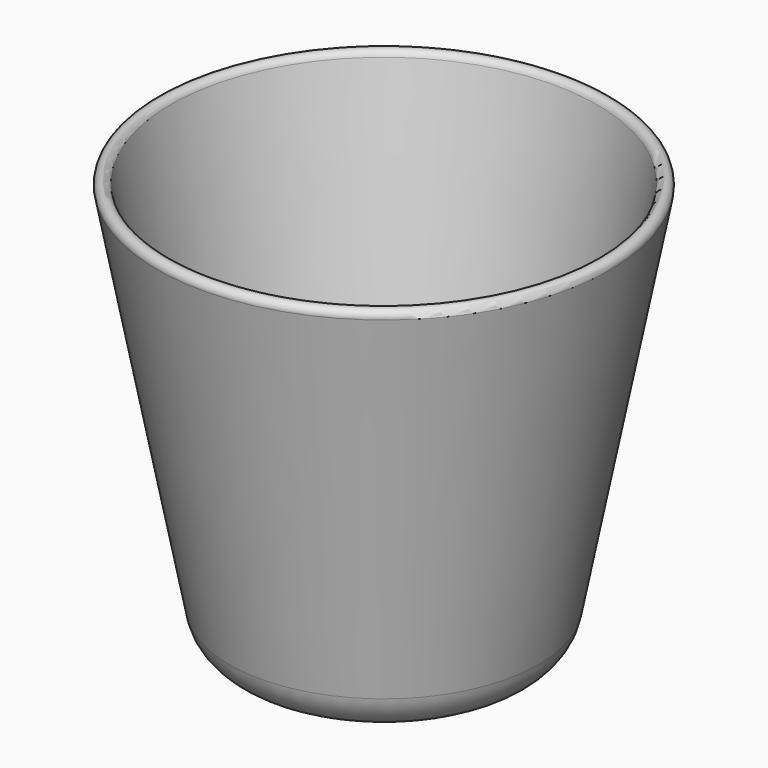
from build123d import *


with BuildPart() as f1:
    # F0 (on Front) → F1 (revolve)
    with BuildSketch(Plane.XZ):
        with BuildLine():
            Line((39.8063, 74.421447), (30.841358, 28.109491))
            ThreePointArc((30.841358, 28.109491), (23.186924, 15.226532), (9.084044, 10.16))
            Line((9.084044, 10.16), (0, 10.16))
            Line((0, 10.16), (0, -2.54))
            Line((0, -2.54), (20.161336, -2.54))
            ThreePointArc((20.161336, -2.54), (25.818725, -0.507554), (28.889312, 4.660462))
            Line((28.889312, 4.660462), (42.300007, 73.938722))
            ThreePointArc((42.300007, 73.938722), (41.294516, 75.426938), (39.8063, 74.421447))
        make_face()
    revolve(axis=Axis((0, 0, 38.1), (0, 0, 1)))


solid = f1.part
